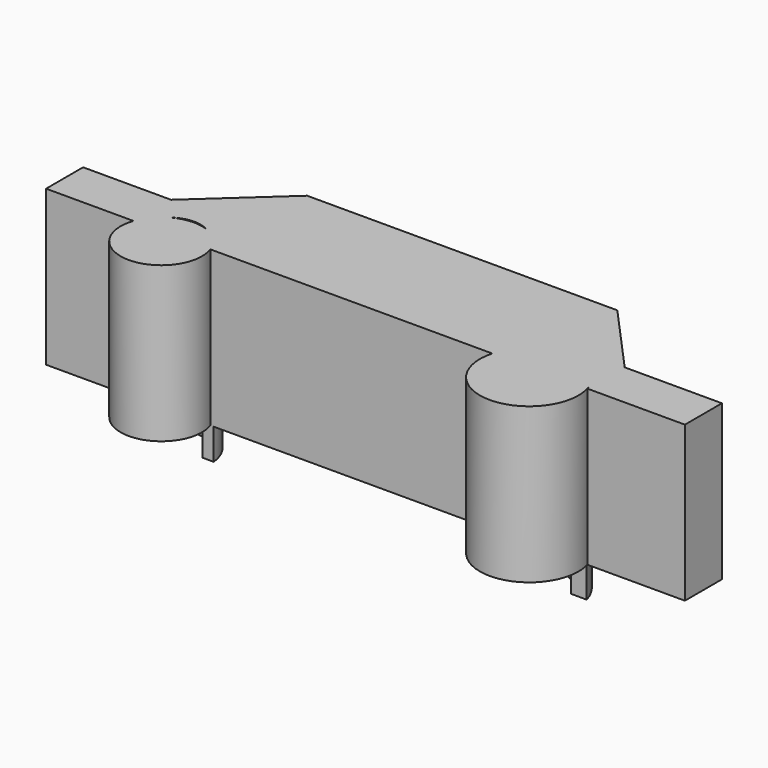
from build123d import *

# Parameters (mm, degrees)
F1_DEPTH = 25.4
F2_R     = 6.666514
F2_R_2   = 8.083865
F3_DEPTH = 25.4
F5_DEPTH = 30.48


with BuildPart() as f1:
    # F0 (on Top) → F1 (new body)
    with BuildSketch(Plane.XY):
        with BuildLine():
            Line((-51.390246, 7.585276), (-51.390246, 0))
            Line((-51.390246, 0), (-36.978222, 0))
            ThreePointArc((-36.978222, 0), (-30.530737, 4.941209), (-24.083251, 0))
            Line((-24.083251, 0), (21.807669, 0))
            ThreePointArc((21.807669, 0), (29.582576, 5.313651), (37.357483, 0))
            Line((37.357483, 0), (53.286567, 0))
            Line((53.286567, 0), (53.286567, 7.585276))
            Line((53.286567, 7.585276), (37.357483, 7.585276))
            Line((37.357483, 7.585276), (26.7381, 19.342454))
            Line((26.7381, 19.342454), (-24.083251, 19.342454))
            Line((-24.083251, 19.342454), (-36.978222, 7.585276))
            Line((-36.978222, 7.585276), (-51.390246, 7.585276))
        make_face()
    extrude(amount=-F1_DEPTH)

    # F2 (on Top) → F3 (join)
    with BuildSketch(Plane.XY):
        with Locations((-30.776636, -2.161567)):
            Circle(F2_R)
        with Locations((29.519783, -2.172714)):
            Circle(F2_R_2)
    extrude(amount=-F3_DEPTH)

    # F4 (on Top) → F5 (join)
    with BuildSketch(Plane.XY):
        with BuildLine():
            Line((-25.728483, 0), (-23.92667, 0))
            ThreePointArc((-23.92667, 0), (-30.812173, 6.259093), (-37.697677, 0))
            Line((-37.697677, 0), (-36.024563, 0))
            ThreePointArc((-36.024563, 0), (-30.876523, 4.711429), (-25.728483, 0))
        make_face()
        with BuildLine():
            Line((34.646899, 0), (37.195049, 0))
            ThreePointArc((37.195049, 0), (29.186578, 6.065914), (21.178108, 0))
            Line((21.178108, 0), (23.180226, 0))
            ThreePointArc((23.180226, 0), (28.913562, 4.008779), (34.646899, 0))
        make_face()
    extrude(amount=-F5_DEPTH)


solid = f1.part
